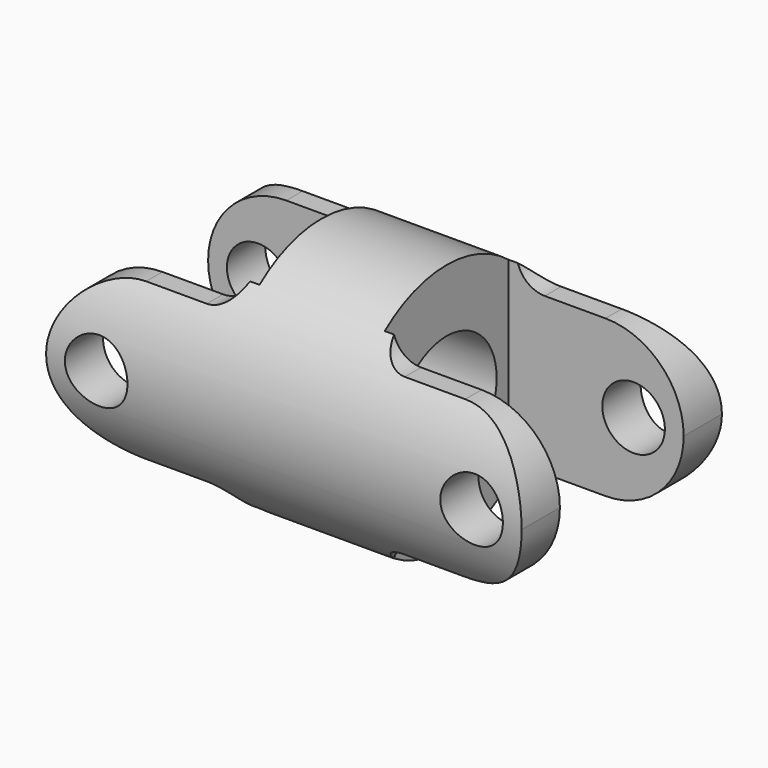
from build123d import *

# Parameters (mm, degrees)
F0_W          = 75.98
F0_H          = 10
F2_W          = 27.99
F2_H          = 12.36
F3_DEPTH      = 20.001
F3_DEPTH_BACK = 20.001
F4_R          = 5
F5_DEPTH      = 20.001
F5_DEPTH_BACK = 20.001


with BuildPart() as f1:
    # F0 (on Front) → F1 (revolve)
    with BuildSketch(Plane.XZ):
        with Locations((0, 15)):
            Rectangle(F0_W, F0_H)
    revolve(axis=Axis((-1.2122914195, 0, 0), (1, 0, 0)))

    # F2 (on Top) → F3 (cut, two sides)
    with BuildSketch(Plane.XY) as f3_sk:
        with Locations((23.995, 6.18)):
            Rectangle(F2_W, F2_H)
        with Locations((23.995, -6.18)):
            Rectangle(F2_W, F2_H)
        with Locations((-23.995, 6.18)):
            Rectangle(F2_W, F2_H)
        with Locations((-23.995, -6.18)):
            Rectangle(F2_W, F2_H)
    extrude(amount=-F3_DEPTH, mode=Mode.SUBTRACT)
    extrude(f3_sk.sketch, amount=F3_DEPTH_BACK, mode=Mode.SUBTRACT)

    # F4 (on Front) → F5 (cut, two sides)
    with BuildSketch(Plane.XZ) as f5_sk:
        with BuildLine():
            Line((-37.99, 15.7235619374), (-37.99, 0))
            ThreePointArc((-37.99, 0), (-34.3302992309, 8.8352992309), (-25.495, 12.495))
            Line((-25.495, 12.495), (-15.8166474553, 12.495))
            ThreePointArc((-15.8166474553, 12.495), (-13.1214175283, 13.3914273782), (-11.5, 15.7235619374))
            Line((-11.5, 15.7235619374), (-37.99, 15.7235619374))
        make_face()
        with BuildLine():
            ThreePointArc((-25.495, -12.495), (-34.3302992309, -8.8352992309), (-37.99, 0))
            Line((-37.99, 0), (-37.99, -15.8999282867))
            Line((-37.99, -15.8999282867), (-11.5, -15.7235619374))
            ThreePointArc((-11.5, -15.7235619374), (-13.1214175283, -13.3914273782), (-15.8166474553, -12.495))
            Line((-15.8166474553, -12.495), (-25.495, -12.495))
        make_face()
        with Locations((-29.99, 0)):
            Circle(F4_R)
        with Locations((29.99, 0)):
            Circle(F4_R)
        with BuildLine():
            Line((37.99, -15.8999282867), (37.99, 0))
            ThreePointArc((37.99, 0), (34.3302992309, -8.8352992309), (25.495, -12.495))
            Line((25.495, -12.495), (15.8166474553, -12.495))
            ThreePointArc((15.8166474553, -12.495), (13.1214175283, -13.3914273782), (11.5, -15.7235619374))
            Line((11.5, -15.7235619374), (37.99, -15.8999282867))
        make_face()
        with BuildLine():
            Line((37.99, 15.7235619374), (11.5, 15.7235619374))
            ThreePointArc((11.5, 15.7235619374), (13.1214175283, 13.3914273782), (15.8166474553, 12.495))
            Line((15.8166474553, 12.495), (25.495, 12.495))
            ThreePointArc((25.495, 12.495), (34.3302992309, 8.8352992309), (37.99, 0))
            Line((37.99, 0), (37.99, 15.7235619374))
        make_face()
    extrude(amount=-F5_DEPTH, mode=Mode.SUBTRACT)
    extrude(f5_sk.sketch, amount=F5_DEPTH_BACK, mode=Mode.SUBTRACT)


solid = f1.part
